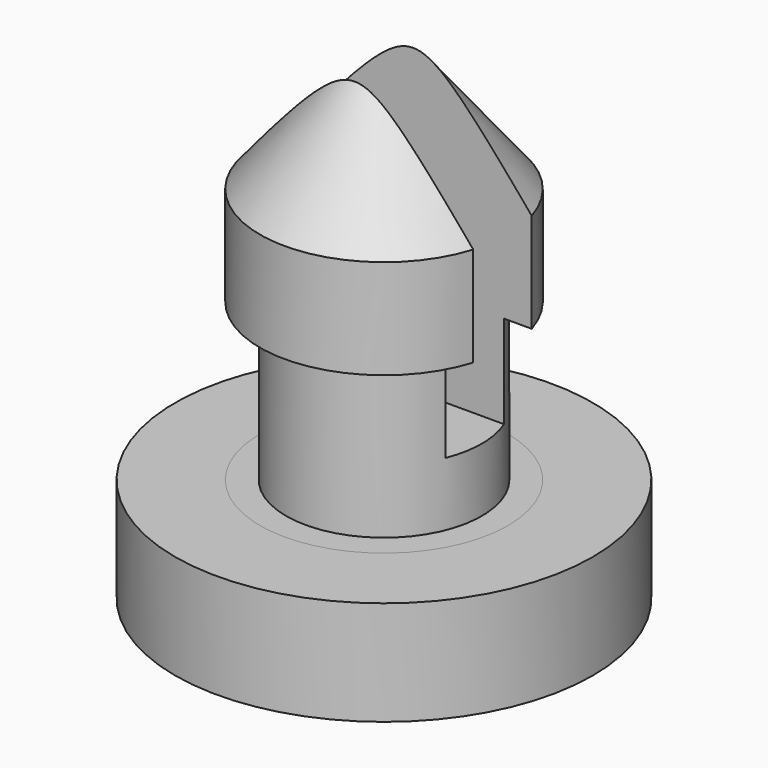
from build123d import *

# Parameters (mm, degrees)
F0_R      = 4
F1_DEPTH  = 2
F2_R      = 2.375
F3_DEPTH  = 9
F4_W      = 2
F4_H      = 3
F10_W     = 1.4
F10_H     = 6.5
F11_DEPTH = 2.5


with BuildPart() as f1:
    # F0 (on Top) → F1 (new body)
    with BuildSketch(Plane.XY):
        Circle(F0_R)
    extrude(amount=F1_DEPTH)


with BuildPart() as f3:
    # F2 (on Top) → F3 (new body)
    with BuildSketch(Plane.XY):
        Circle(F2_R)
    extrude(amount=F3_DEPTH)

    # F4 (on Front) → F6 (revolve, cut)
    with BuildSketch(Plane.XZ):
        with Locations((-2.875, 3.5)):
            Rectangle(F4_W, F4_H)
    revolve(axis=Axis((0, 0, 5.832826), (0, 0, 1)), mode=Mode.SUBTRACT)

    # F7 (on Front) → F9 (revolve, cut)
    with BuildSketch(Plane.XZ):
        Polygon((-2.5, 6.75), (-0.5, 9.25), (-2.5, 9.25), align=None)
    revolve(axis=Axis((0, 0, 4.448059), (0, 0, 1)), mode=Mode.SUBTRACT)

    # F10 (on Right) → F11 (cut, symmetric)
    with BuildSketch(Plane.YZ):
        with Locations((0, 6.469328)):
            Rectangle(F10_W, F10_H)
    extrude(amount=F11_DEPTH, both=True, mode=Mode.SUBTRACT)


solid = Compound([f1.part, f3.part])
